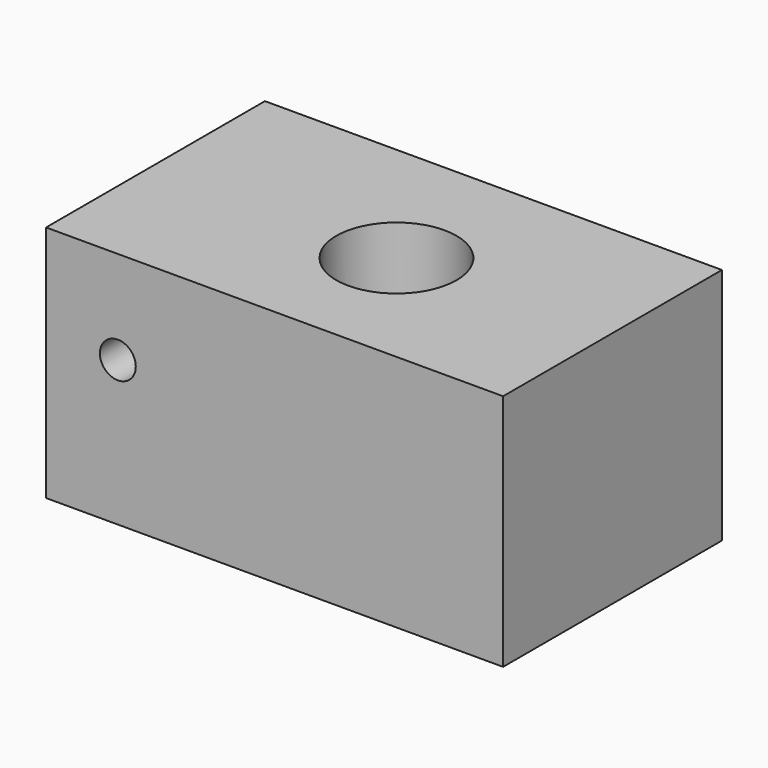
from build123d import *

# Parameters (mm, degrees)
F0_W     = 161.764927
F0_H     = 96.818306
F1_DEPTH = 84.328
F2_R     = 21.280915
F3_DEPTH = 84.329
F4_R     = 6.35
F5_DEPTH = 96.819306


with BuildPart() as f1:
    # F0 (on Top) → F1 (new body)
    with BuildSketch(Plane.XY):
        with Locations((17.771822, 6.286327)):
            Rectangle(F0_W, F0_H)
    extrude(amount=F1_DEPTH)

    # F2 (on face) → F3 (cut, through all)
    with BuildSketch(Plane.XY.offset(84.328)):
        with Locations((23.939807, 4.083021)):
            Circle(F2_R)
    extrude(amount=-F3_DEPTH, mode=Mode.SUBTRACT)

    # F4 (on face) → F5 (cut, through all)
    with BuildSketch(Plane.XZ.offset(42.122826)):
        with Locations((-37.710642, 51.287621)):
            Circle(F4_R)
    extrude(amount=-F5_DEPTH, mode=Mode.SUBTRACT)


solid = f1.part
